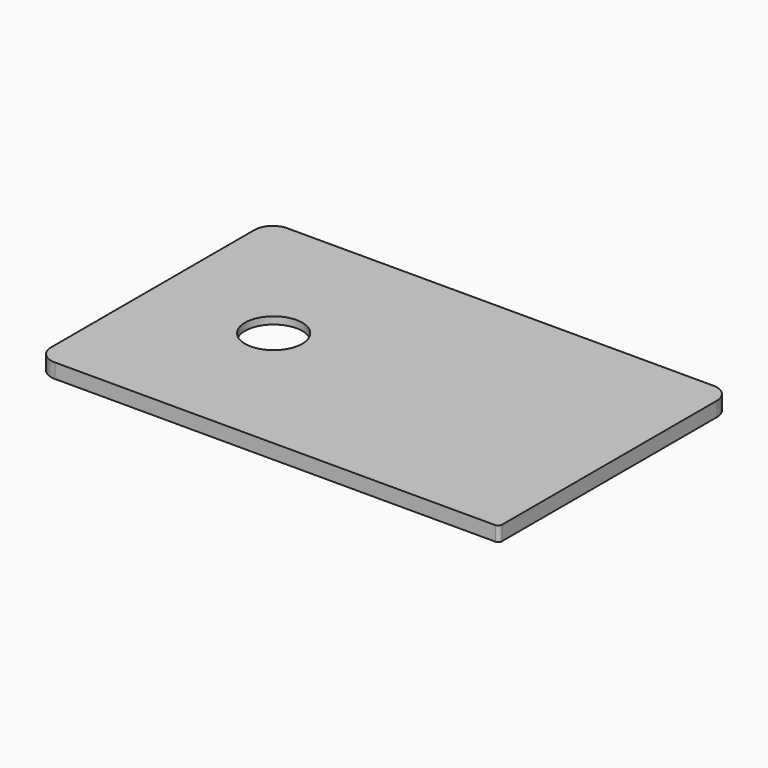
from build123d import *

# Parameters (mm, degrees)
F1_DEPTH = 5.08
F2_T     = -2.54
F4_D     = 20


with BuildPart() as f1:
    # F0 (on Top) → F1 (new body)
    with BuildSketch(Plane.XY):
        with BuildLine():
            Line((-74.373494, -50.733282), (79.453494, -50.733282))
            ThreePointArc((79.453494, -50.733282), (80.35152, -50.361307), (80.723494, -49.463282))
            Line((80.723494, -49.463282), (80.723494, 44.383282))
            ThreePointArc((80.723494, 44.383282), (78.863622, 48.87341), (74.373494, 50.733282))
            Line((74.373494, 50.733282), (-74.373494, 50.733282))
            ThreePointArc((-74.373494, 50.733282), (-78.863622, 48.87341), (-80.723494, 44.383282))
            Line((-80.723494, 44.383282), (-80.723494, -44.383282))
            ThreePointArc((-80.723494, -44.383282), (-78.863622, -48.87341), (-74.373494, -50.733282))
        make_face()
    extrude(amount=F1_DEPTH)

    # F2
    f2_openings = [f1.faces().sort_by_distance(p)[0] for p in [
        (0.040257, -0.025024, 0),
    ]]
    offset(amount=F2_T, openings=f2_openings)

    # F4 (through all)
    with Locations(Plane(origin=(0, 0, 0), x_dir=(1, 0, 0), z_dir=(0, 0, -1))):
        with Locations((-38.540371, 0)):
            Hole(F4_D / 2)


solid = f1.part
